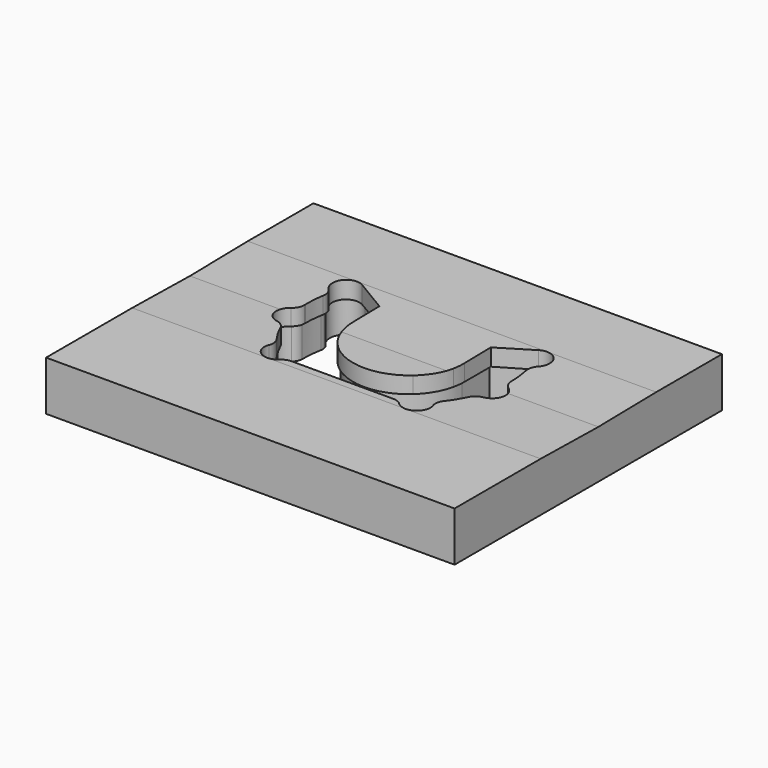
from build123d import *

# Parameters (mm, degrees)
F1_DEPTH = 40
F3_DEPTH = 26
F6_DEPTH = 376


with BuildPart() as f1:
    # F0 (on Top) → F1 (new body)
    with BuildSketch(Plane.XY):
        with BuildLine():
            Line((165, -135), (165, 25))
            Line((165, 25), (83.5, 25))
            ThreePointArc((83.5, 25), (83.4991991535, 24.6342942061), (83.4967966293, 24.2685954271))
            ThreePointArc((83.4967966293, 24.2685954271), (84.6154885355, 19.5843531992), (87.7939862549, 15.9662391769))
            ThreePointArc((87.7939862549, 15.9662391769), (92.2606519972, 4.5495209581), (83.3881264287, -3.9104345842))
            ThreePointArc((83.3881264287, -3.9104345842), (78.9784767448, -5.8465612578), (75.9852018745, -9.6193456912))
            ThreePointArc((75.9852018745, -9.6193456912), (72.1319392895, -17.0622554594), (67.5519565242, -24.0813933151))
            ThreePointArc((67.5519565242, -24.0813933151), (65.7426065331, -28.544559169), (66.2292845484, -33.3358785427))
            ThreePointArc((66.2292845484, -33.3358785427), (61.7955930136, -46.3209199003), (48.1502490008, -44.880952381))
            ThreePointArc((48.1502490008, -44.880952381), (44.922849365, -42.7482305425), (41.1274887886, -42))
            Line((41.1274887886, -42), (-41.1274887886, -42))
            ThreePointArc((-41.1274887886, -42), (-44.922849365, -42.7482305425), (-48.1502490008, -44.880952381))
            ThreePointArc((-48.1502490008, -44.880952381), (-61.7955930136, -46.3209199003), (-66.2292845484, -33.3358785427))
            ThreePointArc((-66.2292845484, -33.3358785427), (-65.7426065331, -28.544559169), (-67.5519565242, -24.0813933151))
            ThreePointArc((-67.5519565242, -24.0813933151), (-72.1319392895, -17.0622554594), (-75.9852018745, -9.6193456912))
            ThreePointArc((-75.9852018745, -9.6193456912), (-78.9784767448, -5.8465612578), (-83.3881264287, -3.9104345842))
            ThreePointArc((-83.3881264287, -3.9104345842), (-92.2606519972, 4.5495209581), (-87.7939862549, 15.9662391769))
            ThreePointArc((-87.7939862549, 15.9662391769), (-84.6154885355, 19.5843531992), (-83.4967966293, 24.2685954271))
            ThreePointArc((-83.4967966293, 24.2685954271), (-83.4991991535, 24.6342942061), (-83.5, 25))
            Line((-83.5, 25), (-165, 25))
            Line((-165, 25), (-165, -135))
            Line((-165, -135), (165, -135))
        make_face()
        with BuildLine():
            Line((165, 25), (165, 135))
            Line((165, 135), (-165, 135))
            Line((-165, 135), (-165, 25))
            Line((-165, 25), (-83.5, 25))
            ThreePointArc((-83.5, 25), (-83.1151125621, 33.0079999869), (-81.9639984721, 40.9421753368))
            ThreePointArc((-81.9639984721, 40.9421753368), (-82.2099154551, 45.7518657289), (-84.6754899777, 49.8888379435))
            ThreePointArc((-84.6754899777, 49.8888379435), (-85.5373543192, 64.3910516772), (-71.2643792291, 67.1001466184))
            Line((-71.2643792291, 67.1001466184), (-45, 51.58))
            Line((-45, 51.58), (-45, 44.1040966114))
            Line((-45, 44.1040966114), (-45, 25))
            Line((-45, 25), (0, 25))
            Line((0, 25), (45, 25))
            Line((45, 25), (45, 44.1040966114))
            Line((45, 44.1040966114), (45, 51.58))
            Line((45, 51.58), (71.2643792291, 67.1001466184))
            ThreePointArc((71.2643792291, 67.1001466184), (85.5373543192, 64.3910516772), (84.6754899777, 49.8888379435))
            ThreePointArc((84.6754899777, 49.8888379435), (82.2099154551, 45.7518657289), (81.9639984721, 40.9421753368))
            ThreePointArc((81.9639984721, 40.9421753368), (83.1151125621, 33.0079999869), (83.5, 25))
            Line((83.5, 25), (165, 25))
        make_face()
        with BuildLine():
            Line((0, 25), (-45, 25))
            ThreePointArc((-45, 25), (-44.7326165754, 20.1017335398), (-43.9336438082, 15.2616766467))
            Line((-43.9336438082, 15.2616766467), (0, 25))
        make_face()
        with BuildLine():
            Line((-30.1124291681, -8.4401197605), (0, 25))
            Line((0, 25), (-43.9336438082, 15.2616766467))
            ThreePointArc((-43.9336438082, 15.2616766467), (-38.8735002159, 2.3317186147), (-30.1124291681, -8.4401197605))
        make_face()
        with BuildLine():
            Line((30.1124291681, -8.4401197605), (0, 25))
            Line((0, 25), (-30.1124291681, -8.4401197605))
            ThreePointArc((-30.1124291681, -8.4401197605), (0, -20), (30.1124291681, -8.4401197605))
        make_face()
        with BuildLine():
            ThreePointArc((30.1124291681, -8.4401197605), (38.8735002159, 2.3317186147), (43.9336438082, 15.2616766467))
            Line((43.9336438082, 15.2616766467), (0, 25))
            Line((0, 25), (30.1124291681, -8.4401197605))
        make_face()
        with BuildLine():
            ThreePointArc((43.9336438082, 15.2616766467), (44.7326165754, 20.1017335398), (45, 25))
            Line((45, 25), (0, 25))
            Line((0, 25), (43.9336438082, 15.2616766467))
        make_face()
    extrude(amount=F1_DEPTH)

    # F2 (on face) → F3 (cut)
    with BuildSketch(Plane(origin=(0, 0, 0), x_dir=(1, 0, 0), z_dir=(0, 0, -1))):
        with BuildLine():
            Line((41.1274887886, 44), (-41.1274887886, 44))
            ThreePointArc((-41.1274887886, 44), (-44.1637772497, 44.598584434), (-46.7456969583, 46.3047619048))
            ThreePointArc((-46.7456969583, 46.3047619048), (-62.8720126099, 48.0065417003), (-68.1118298783, 32.6605837322))
            ThreePointArc((-68.1118298783, 32.6605837322), (-67.722487466, 28.8275282333), (-69.1699674589, 25.2569955502))
            ThreePointArc((-69.1699674589, 25.2569955502), (-73.8596504102, 18.0697346321), (-77.8052067098, 10.4485515761))
            ThreePointArc((-77.8052067098, 10.4485515761), (-80.1998266061, 7.4303240293), (-83.7275463532, 5.8814226904))
            ThreePointArc((-83.7275463532, 5.8814226904), (-94.2132583887, -4.1167065868), (-88.9344716024, -17.6091917545))
            ThreePointArc((-88.9344716024, -17.6091917545), (-86.3916734268, -20.5036829723), (-85.4967199018, -24.2510767547))
            ThreePointArc((-85.4967199018, -24.2510767547), (-85.1409902363, -32.8269905829), (-83.9272080163, -41.3240238478))
            ThreePointArc((-83.9272080163, -41.3240238478), (-84.1239416027, -45.1717761615), (-86.0964012208, -48.4813539332))
            ThreePointArc((-86.0964012208, -48.4813539332), (-87.1149681698, -65.6203338003), (-70.2469066998, -68.8219914581))
            Line((-70.2469066998, -68.8219914581), (-43, -52.7212497201))
            Line((-43, -52.7212497201), (-43, -25))
            ThreePointArc((-43, -25), (0, 18), (43, -25))
            Line((43, -25), (43, -52.7212497201))
            Line((43, -52.7212497201), (70.2469066998, -68.8219914581))
            ThreePointArc((70.2469066998, -68.8219914581), (87.1149681698, -65.6203338003), (86.0964012208, -48.4813539332))
            ThreePointArc((86.0964012208, -48.4813539332), (84.1239416027, -45.1717761615), (83.9272080163, -41.3240238478))
            ThreePointArc((83.9272080163, -41.3240238478), (85.1409902363, -32.8269905829), (85.4967199018, -24.2510767547))
            ThreePointArc((85.4967199018, -24.2510767547), (86.3916734268, -20.5036829723), (88.9344716024, -17.6091917545))
            ThreePointArc((88.9344716024, -17.6091917545), (94.2132583887, -4.1167065868), (83.7275463532, 5.8814226904))
            ThreePointArc((83.7275463532, 5.8814226904), (80.1998266061, 7.4303240293), (77.8052067098, 10.4485515761))
            ThreePointArc((77.8052067098, 10.4485515761), (73.8596504102, 18.0697346321), (69.1699674589, 25.2569955502))
            ThreePointArc((69.1699674589, 25.2569955502), (67.722487466, 28.8275282333), (68.1118298783, 32.6605837322))
            ThreePointArc((68.1118298783, 32.6605837322), (62.8720126099, 48.0065417003), (46.7456969583, 46.3047619048))
            ThreePointArc((46.7456969583, 46.3047619048), (44.1637772497, 44.598584434), (41.1274887886, 44))
        make_face()
        with BuildLine():
            Line((-45, -51.58), (-71.2643792291, -67.1001466184))
            ThreePointArc((-71.2643792291, -67.1001466184), (-85.5373543192, -64.3910516772), (-84.6754899777, -49.8888379435))
            ThreePointArc((-84.6754899777, -49.8888379435), (-82.2099154551, -45.7518657289), (-81.9639984721, -40.9421753368))
            ThreePointArc((-81.9639984721, -40.9421753368), (-83.1493881255, -32.6439030838), (-83.4967966293, -24.2685954271))
            ThreePointArc((-83.4967966293, -24.2685954271), (-84.6154885355, -19.5843531992), (-87.7939862549, -15.9662391769))
            ThreePointArc((-87.7939862549, -15.9662391769), (-92.2606519972, -4.5495209581), (-83.3881264287, 3.9104345842))
            ThreePointArc((-83.3881264287, 3.9104345842), (-78.9784767448, 5.8465612578), (-75.9852018745, 9.6193456912))
            ThreePointArc((-75.9852018745, 9.6193456912), (-72.1319392895, 17.0622554594), (-67.5519565242, 24.0813933151))
            ThreePointArc((-67.5519565242, 24.0813933151), (-65.7426065331, 28.544559169), (-66.2292845484, 33.3358785427))
            ThreePointArc((-66.2292845484, 33.3358785427), (-61.7955930136, 46.3209199003), (-48.1502490008, 44.880952381))
            ThreePointArc((-48.1502490008, 44.880952381), (-44.922849365, 42.7482305425), (-41.1274887886, 42))
            Line((-41.1274887886, 42), (41.1274887886, 42))
            ThreePointArc((41.1274887886, 42), (44.922849365, 42.7482305425), (48.1502490008, 44.880952381))
            ThreePointArc((48.1502490008, 44.880952381), (61.7955930136, 46.3209199003), (66.2292845484, 33.3358785427))
            ThreePointArc((66.2292845484, 33.3358785427), (65.7426065331, 28.544559169), (67.5519565242, 24.0813933151))
            ThreePointArc((67.5519565242, 24.0813933151), (72.1319392895, 17.0622554594), (75.9852018745, 9.6193456912))
            ThreePointArc((75.9852018745, 9.6193456912), (78.9784767448, 5.8465612578), (83.3881264287, 3.9104345842))
            ThreePointArc((83.3881264287, 3.9104345842), (92.2606519972, -4.5495209581), (87.7939862549, -15.9662391769))
            ThreePointArc((87.7939862549, -15.9662391769), (84.6154885355, -19.5843531992), (83.4967966293, -24.2685954271))
            ThreePointArc((83.4967966293, -24.2685954271), (83.1493881255, -32.6439030838), (81.9639984721, -40.9421753368))
            ThreePointArc((81.9639984721, -40.9421753368), (82.2099154551, -45.7518657289), (84.6754899777, -49.8888379435))
            ThreePointArc((84.6754899777, -49.8888379435), (85.5373543192, -64.3910516772), (71.2643792291, -67.1001466184))
            Line((71.2643792291, -67.1001466184), (45, -51.58))
            Line((45, -51.58), (45, -25))
            ThreePointArc((45, -25), (0, 20), (-45, -25))
            Line((-45, -25), (-45, -51.58))
        make_face(mode=Mode.SUBTRACT)
    extrude(amount=-F3_DEPTH, mode=Mode.SUBTRACT)

    # F5 (on face) → F6 (cut)
    with BuildSketch(Plane.YZ.offset(165)):
        Polygon((10.29, 40), (-48.05, 40), (10.29, 39), align=None)
        Polygon((68.63, 40), (10.29, 40), (10.29, 39), align=None)
    extrude(amount=-F6_DEPTH, mode=Mode.SUBTRACT)


solid = f1.part
